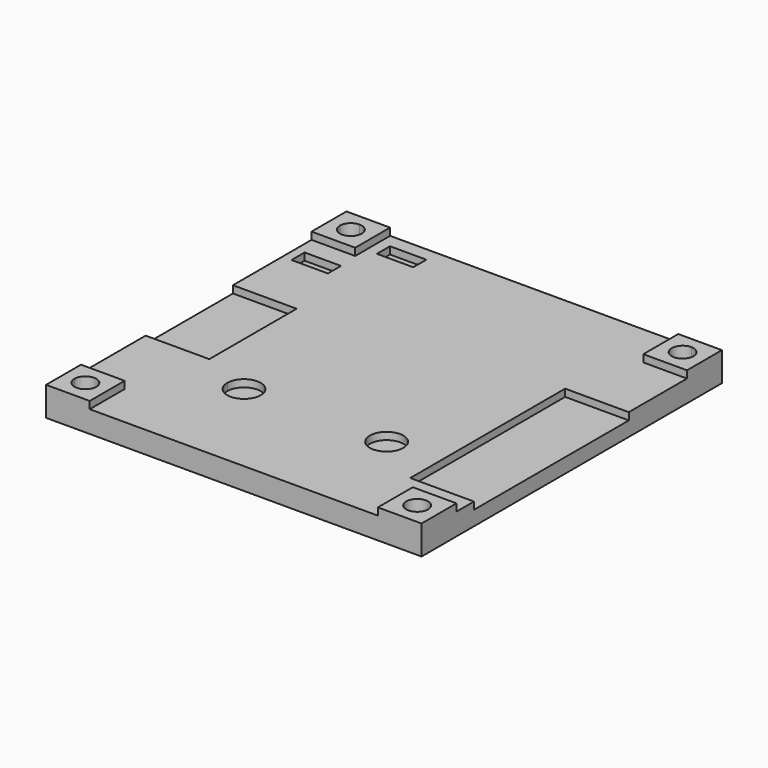
from build123d import *

# Parameters (mm, degrees)
F1_DEPTH = 4
F2_W     = 5
F2_H     = 2.25
F2_W_2   = 8.75
F2_H_2   = 15
F2_H_3   = 21.6
F2_H_4   = 5
F3_DEPTH = 2
F4_DEPTH = 1


with BuildPart() as f1:
    # F0 (on Top) → F1 (new body)
    with BuildSketch(Plane.XY):
        with BuildLine():
            Line((48.6, 0), (3, 0))
            Line((3, 0), (3, -1.5))
            ThreePointArc((3, -1.5), (4.06066, -1.93934), (4.5, -3))
            ThreePointArc((4.5, -3), (3, -4.5), (1.5, -3))
            Line((1.5, -3), (0, -3))
            Line((0, -3), (0, -48.6))
            Line((0, -48.6), (1.5, -48.6))
            ThreePointArc((1.5, -48.6), (3, -47.1), (4.5, -48.6))
            ThreePointArc((4.5, -48.6), (4.06066, -49.66066), (3, -50.1))
            Line((3, -50.1), (3, -51.6))
            Line((3, -51.6), (48.6, -51.6))
            Line((48.6, -51.6), (48.6, -50.1))
            ThreePointArc((48.6, -50.1), (47.53934, -47.53934), (50.1, -48.6))
            Line((50.1, -48.6), (51.6, -48.6))
            Line((51.6, -48.6), (51.6, -3))
            Line((51.6, -3), (50.1, -3))
            ThreePointArc((50.1, -3), (47.53934, -4.06066), (48.6, -1.5))
            Line((48.6, -1.5), (48.6, 0))
        make_face()
        with BuildLine():
            Line((1.5, -48.6), (0, -48.6))
            Line((0, -48.6), (0, -51.6))
            Line((0, -51.6), (3, -51.6))
            Line((3, -51.6), (3, -50.1))
            ThreePointArc((3, -50.1), (1.93934, -49.66066), (1.5, -48.6))
        make_face()
        with BuildLine():
            Line((51.6, -51.6), (51.6, -48.6))
            Line((51.6, -48.6), (50.1, -48.6))
            ThreePointArc((50.1, -48.6), (49.66066, -49.66066), (48.6, -50.1))
            Line((48.6, -50.1), (48.6, -51.6))
            Line((48.6, -51.6), (51.6, -51.6))
        make_face()
        with BuildLine():
            Line((51.6, 0), (48.6, 0))
            Line((48.6, 0), (48.6, -1.5))
            ThreePointArc((48.6, -1.5), (49.66066, -1.93934), (50.1, -3))
            Line((50.1, -3), (51.6, -3))
            Line((51.6, -3), (51.6, 0))
        make_face()
        with BuildLine():
            Line((3, 0), (0, 0))
            Line((0, 0), (0, -3))
            Line((0, -3), (1.5, -3))
            ThreePointArc((1.5, -3), (1.93934, -1.93934), (3, -1.5))
            Line((3, -1.5), (3, 0))
        make_face()
    extrude(amount=F1_DEPTH)

    # F2 (on face) → F3 (cut)
    with BuildSketch(Plane.XY.offset(4)):
        with Locations((3.75, -9.875)):
            Rectangle(F2_W, F2_H)
        with Locations((4.375, -27)):
            Rectangle(F2_W_2, F2_H_2)
        with BuildLine():
            Line((16, -37.6), (13.7, -37.6))
            ThreePointArc((13.7, -37.6), (14.373654, -39.226346), (16, -39.9))
            Line((16, -39.9), (16, -37.6))
        make_face()
        with BuildLine():
            ThreePointArc((18.3, -37.6), (16, -35.3), (13.7, -37.6))
            Line((13.7, -37.6), (16, -37.6))
            Line((16, -37.6), (16, -39.9))
            ThreePointArc((16, -39.9), (17.626346, -39.226346), (18.3, -37.6))
        make_face()
        with BuildLine():
            ThreePointArc((37.9, -37.6), (33.973654, -35.973654), (35.6, -39.9))
            Line((35.6, -39.9), (35.6, -37.6))
            Line((35.6, -37.6), (37.9, -37.6))
        make_face()
        with BuildLine():
            Line((35.6, -37.6), (35.6, -39.9))
            ThreePointArc((35.6, -39.9), (37.226346, -39.226346), (37.9, -37.6))
            Line((37.9, -37.6), (35.6, -37.6))
        make_face()
        with Locations((47.225, -26.8)):
            Rectangle(F2_W_2, F2_H_3)
        with Locations((47.225, -40.1)):
            Rectangle(F2_W_2, F2_H_4)
        with Locations((10, -3.025)):
            Rectangle(F2_W, F2_H)
    extrude(amount=-F3_DEPTH, mode=Mode.SUBTRACT)

    # F2 (on face) → F4 (cut)
    with BuildSketch(Plane.XY.offset(4)):
        with BuildLine():
            Line((13.7, -37.6), (0, -37.6))
            Line((0, -37.6), (0, -45.6))
            Line((0, -45.6), (6, -45.6))
            Line((6, -45.6), (6, -51.6))
            Line((6, -51.6), (16, -51.6))
            Line((16, -51.6), (16, -39.9))
            ThreePointArc((16, -39.9), (14.373654, -39.226346), (13.7, -37.6))
        make_face()
        with BuildLine():
            Line((6, -6), (0, -6))
            Line((0, -6), (0, -19.5))
            Line((0, -19.5), (8.75, -19.5))
            Line((8.75, -19.5), (8.75, -34.5))
            Line((8.75, -34.5), (0, -34.5))
            Line((0, -34.5), (0, -37.6))
            Line((0, -37.6), (13.7, -37.6))
            ThreePointArc((13.7, -37.6), (16, -35.3), (18.3, -37.6))
            ThreePointArc((18.3, -37.6), (17.626346, -39.226346), (16, -39.9))
            Line((16, -39.9), (16, -51.6))
            Line((16, -51.6), (35.6, -51.6))
            Line((35.6, -51.6), (35.6, -39.9))
            ThreePointArc((35.6, -39.9), (33.973654, -35.973654), (37.9, -37.6))
            Line((37.9, -37.6), (42.85, -37.6))
            Line((42.85, -37.6), (42.85, -16))
            Line((42.85, -16), (51.6, -16))
            Line((51.6, -16), (51.6, -6))
            Line((51.6, -6), (45.6, -6))
            Line((45.6, -6), (45.6, 0))
            Line((45.6, 0), (6, 0))
            Line((6, 0), (6, -6))
        make_face()
        with Locations((3.75, -9.875)):
            Rectangle(F2_W, F2_H, mode=Mode.SUBTRACT)
        with Locations((10, -3.025)):
            Rectangle(F2_W, F2_H, mode=Mode.SUBTRACT)
        with BuildLine():
            Line((35.6, -39.9), (35.6, -51.6))
            Line((35.6, -51.6), (45.6, -51.6))
            Line((45.6, -51.6), (45.6, -45.6))
            Line((45.6, -45.6), (51.6, -45.6))
            Line((51.6, -45.6), (51.6, -42.6))
            Line((51.6, -42.6), (42.85, -42.6))
            Line((42.85, -42.6), (42.85, -37.6))
            Line((42.85, -37.6), (37.9, -37.6))
            ThreePointArc((37.9, -37.6), (37.226346, -39.226346), (35.6, -39.9))
        make_face()
    extrude(amount=-F4_DEPTH, mode=Mode.SUBTRACT)


solid = f1.part
